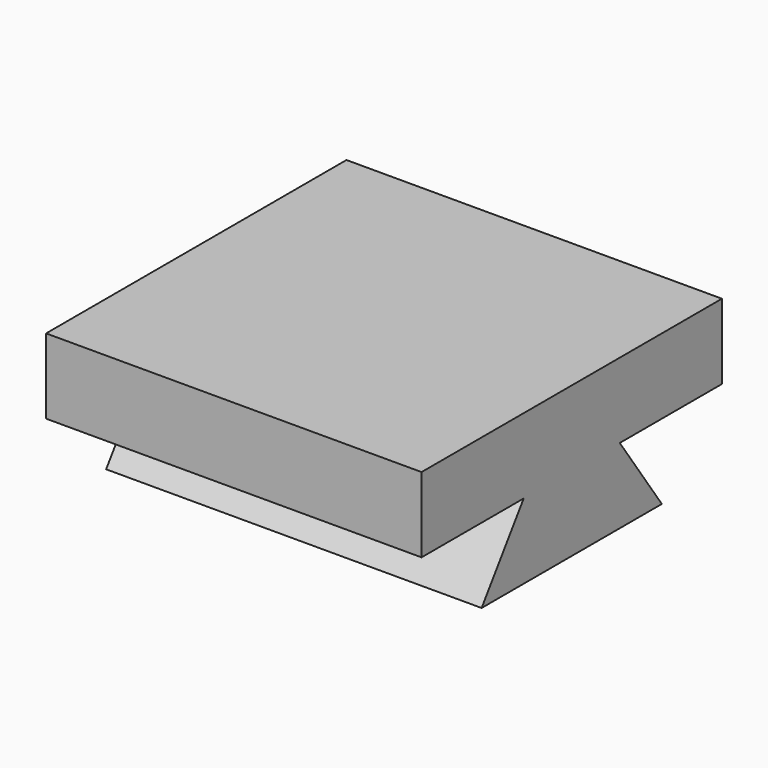
from build123d import *

# Parameters (mm, degrees)
F0_W     = 50
F0_H     = 50
F1_DEPTH = 10
F3_DEPTH = 25
F5_D     = 12
F5_DEPTH = 5
F5_TIP   = 3.6051637142


with BuildPart() as f1:
    # F0 (on Top) → F1 (new body)
    with BuildSketch(Plane.XY):
        Rectangle(F0_W, F0_H)
    extrude(amount=F1_DEPTH)

    # F2 (on Right) → F3 (join, symmetric)
    with BuildSketch(Plane.YZ):
        Polygon((0, -10), (0, 0), (-7.9979246179, 0), (-15, -10), align=None)
        Polygon((7.9979246179, 0), (0, 0), (0, -10), (15, -10), align=None)
    extrude(amount=F3_DEPTH, both=True)

    # F5
    with Locations(Plane(origin=(0, 0, -10), x_dir=(1, 0, 0), z_dir=(0, 0, -1))):
        with Locations((0, 0)):
            Hole(F5_D / 2, depth=F5_DEPTH)
            with Locations((0, 0, -(F5_DEPTH + F5_TIP / 2))):  # 118° drill point
                Cone(0, F5_D / 2, F5_TIP, mode=Mode.SUBTRACT)


solid = f1.part
